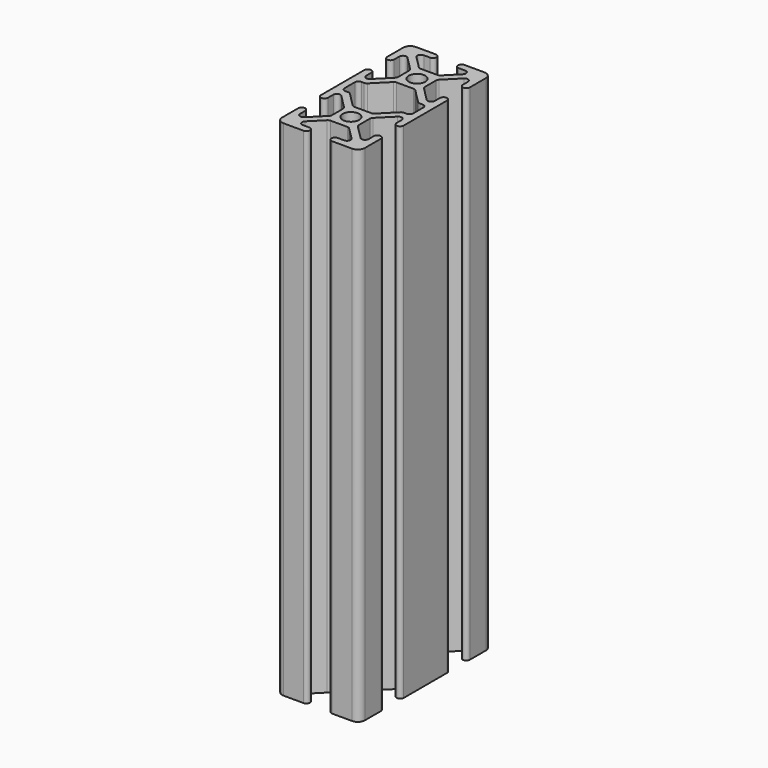
from build123d import *

# Parameters (mm, degrees)
F0_R     = 2.5
F1_DEPTH = 152.4


with BuildPart() as f1:
    # F0 (on Top) → F1 (new body)
    with BuildSketch(Plane.XY):
        with BuildLine():
            ThreePointArc((-10.36, 12.5), (-11.873209, 11.873209), (-12.5, 10.36))
            Line((-12.5, 10.36), (-12.5, 4.32))
            ThreePointArc((-12.5, 4.32), (-11.43, 3.25), (-10.36, 4.32))
            Line((-10.36, 4.32), (-10.36, 6.263583))
            ThreePointArc((-10.36, 6.263583), (-9.699471, 7.252134), (-8.533396, 7.020187))
            Line((-8.533396, 7.020187), (-4.363396, 2.850187))
            ThreePointArc((-4.363396, 2.850187), (-4.131449, 2.503054), (-4.05, 2.093583))
            Line((-4.05, 2.093583), (-4.05, 0))
            Line((-4.05, 0), (-4.05, -2.093583))
            ThreePointArc((-4.05, -2.093583), (-4.131449, -2.503054), (-4.363396, -2.850187))
            Line((-4.363396, -2.850187), (-8.533396, -7.020187))
            ThreePointArc((-8.533396, -7.020187), (-9.699471, -7.252134), (-10.36, -6.263583))
            Line((-10.36, -6.263583), (-10.36, -4.32))
            ThreePointArc((-10.36, -4.32), (-11.43, -3.25), (-12.5, -4.32))
            Line((-12.5, -4.32), (-12.5, -12.5))
            Line((-12.5, -12.5), (-12.5, -20.68))
            ThreePointArc((-12.5, -20.68), (-11.43, -21.75), (-10.36, -20.68))
            Line((-10.36, -20.68), (-10.36, -18.736417))
            ThreePointArc((-10.36, -18.736417), (-9.699471, -17.747866), (-8.533396, -17.979813))
            Line((-8.533396, -17.979813), (-4.363396, -22.149813))
            ThreePointArc((-4.363396, -22.149813), (-4.131449, -22.496946), (-4.05, -22.906417))
            Line((-4.05, -22.906417), (-4.05, -25))
            Line((-4.05, -25), (-4.05, -27.093583))
            ThreePointArc((-4.05, -27.093583), (-4.131449, -27.503054), (-4.363396, -27.850187))
            Line((-4.363396, -27.850187), (-8.533396, -32.020187))
            ThreePointArc((-8.533396, -32.020187), (-9.699471, -32.252134), (-10.36, -31.263583))
            Line((-10.36, -31.263583), (-10.36, -29.32))
            ThreePointArc((-10.36, -29.32), (-11.43, -28.25), (-12.5, -29.32))
            Line((-12.5, -29.32), (-12.5, -35.36))
            ThreePointArc((-12.5, -35.36), (-11.873209, -36.873209), (-10.36, -37.5))
            Line((-10.36, -37.5), (-4.32, -37.5))
            ThreePointArc((-4.32, -37.5), (-3.25, -36.43), (-4.32, -35.36))
            Line((-4.32, -35.36), (-6.263583, -35.36))
            ThreePointArc((-6.263583, -35.36), (-7.252134, -34.699471), (-7.020187, -33.533396))
            Line((-7.020187, -33.533396), (-3.310187, -29.823396))
            ThreePointArc((-3.310187, -29.823396), (-2.963054, -29.591449), (-2.553583, -29.51))
            Line((-2.553583, -29.51), (0, -29.51))
            Line((0, -29.51), (2.553583, -29.51))
            ThreePointArc((2.553583, -29.51), (2.963054, -29.591449), (3.310187, -29.823396))
            Line((3.310187, -29.823396), (7.020187, -33.533396))
            ThreePointArc((7.020187, -33.533396), (7.252134, -34.699471), (6.263583, -35.36))
            Line((6.263583, -35.36), (4.32, -35.36))
            ThreePointArc((4.32, -35.36), (3.25, -36.43), (4.32, -37.5))
            Line((4.32, -37.5), (10.36, -37.5))
            ThreePointArc((10.36, -37.5), (11.873209, -36.873209), (12.5, -35.36))
            Line((12.5, -35.36), (12.5, -29.32))
            ThreePointArc((12.5, -29.32), (11.43, -28.25), (10.36, -29.32))
            Line((10.36, -29.32), (10.36, -31.263583))
            ThreePointArc((10.36, -31.263583), (9.699471, -32.252134), (8.533396, -32.020187))
            Line((8.533396, -32.020187), (4.363396, -27.850187))
            ThreePointArc((4.363396, -27.850187), (4.131449, -27.503054), (4.05, -27.093583))
            Line((4.05, -27.093583), (4.05, -25))
            Line((4.05, -25), (4.05, -22.906417))
            ThreePointArc((4.05, -22.906417), (4.131449, -22.496946), (4.363396, -22.149813))
            Line((4.363396, -22.149813), (8.533396, -17.979813))
            ThreePointArc((8.533396, -17.979813), (9.699471, -17.747866), (10.36, -18.736417))
            Line((10.36, -18.736417), (10.36, -20.68))
            ThreePointArc((10.36, -20.68), (11.43, -21.75), (12.5, -20.68))
            Line((12.5, -20.68), (12.5, -12.5))
            Line((12.5, -12.5), (12.5, -4.32))
            ThreePointArc((12.5, -4.32), (11.43, -3.25), (10.36, -4.32))
            Line((10.36, -4.32), (10.36, -6.263583))
            ThreePointArc((10.36, -6.263583), (9.699471, -7.252134), (8.533396, -7.020187))
            Line((8.533396, -7.020187), (4.363396, -2.850187))
            ThreePointArc((4.363396, -2.850187), (4.131449, -2.503054), (4.05, -2.093583))
            Line((4.05, -2.093583), (4.05, 0))
            Line((4.05, 0), (4.05, 2.093583))
            ThreePointArc((4.05, 2.093583), (4.131449, 2.503054), (4.363396, 2.850187))
            Line((4.363396, 2.850187), (8.533396, 7.020187))
            ThreePointArc((8.533396, 7.020187), (9.699471, 7.252134), (10.36, 6.263583))
            Line((10.36, 6.263583), (10.36, 4.32))
            ThreePointArc((10.36, 4.32), (11.43, 3.25), (12.5, 4.32))
            Line((12.5, 4.32), (12.5, 10.36))
            ThreePointArc((12.5, 10.36), (11.873209, 11.873209), (10.36, 12.5))
            Line((10.36, 12.5), (4.32, 12.5))
            ThreePointArc((4.32, 12.5), (3.25, 11.43), (4.32, 10.36))
            Line((4.32, 10.36), (6.263583, 10.36))
            ThreePointArc((6.263583, 10.36), (7.252134, 9.699471), (7.020187, 8.533396))
            Line((7.020187, 8.533396), (3.310187, 4.823396))
            ThreePointArc((3.310187, 4.823396), (2.963054, 4.591449), (2.553583, 4.51))
            Line((2.553583, 4.51), (0, 4.51))
            Line((0, 4.51), (-2.553583, 4.51))
            ThreePointArc((-2.553583, 4.51), (-2.963054, 4.591449), (-3.310187, 4.823396))
            Line((-3.310187, 4.823396), (-7.020187, 8.533396))
            ThreePointArc((-7.020187, 8.533396), (-7.252134, 9.699471), (-6.263583, 10.36))
            Line((-6.263583, 10.36), (-4.32, 10.36))
            ThreePointArc((-4.32, 10.36), (-3.25, 11.43), (-4.32, 12.5))
            Line((-4.32, 12.5), (-10.36, 12.5))
        make_face()
        with Locations((0, -25)):
            Circle(F0_R, mode=Mode.SUBTRACT)
        with BuildLine():
            Line((-2.553583, -4.51), (0, -4.51))
            Line((0, -4.51), (2.553583, -4.51))
            ThreePointArc((2.553583, -4.51), (2.963054, -4.591449), (3.310187, -4.823396))
            Line((3.310187, -4.823396), (7.646979, -9.160187))
            ThreePointArc((7.646979, -9.160187), (7.994112, -9.392134), (8.403583, -9.473583))
            Line((8.403583, -9.473583), (9.29, -9.473583))
            ThreePointArc((9.29, -9.473583), (10.046604, -9.786979), (10.36, -10.543583))
            Line((10.36, -10.543583), (10.36, -12.5))
            Line((10.36, -12.5), (10.36, -14.456417))
            ThreePointArc((10.36, -14.456417), (10.046604, -15.213021), (9.29, -15.526417))
            Line((9.29, -15.526417), (8.403583, -15.526417))
            ThreePointArc((8.403583, -15.526417), (7.994112, -15.607866), (7.646979, -15.839813))
            Line((7.646979, -15.839813), (3.310187, -20.176604))
            ThreePointArc((3.310187, -20.176604), (2.963054, -20.408551), (2.553583, -20.49))
            Line((2.553583, -20.49), (0, -20.49))
            Line((0, -20.49), (-2.553583, -20.49))
            ThreePointArc((-2.553583, -20.49), (-2.963054, -20.408551), (-3.310187, -20.176604))
            Line((-3.310187, -20.176604), (-7.646979, -15.839813))
            ThreePointArc((-7.646979, -15.839813), (-7.994112, -15.607866), (-8.403583, -15.526417))
            Line((-8.403583, -15.526417), (-9.29, -15.526417))
            ThreePointArc((-9.29, -15.526417), (-10.046604, -15.213021), (-10.36, -14.456417))
            Line((-10.36, -14.456417), (-10.36, -12.5))
            Line((-10.36, -12.5), (-10.36, -10.543583))
            ThreePointArc((-10.36, -10.543583), (-10.046604, -9.786979), (-9.29, -9.473583))
            Line((-9.29, -9.473583), (-8.403583, -9.473583))
            ThreePointArc((-8.403583, -9.473583), (-7.994112, -9.392134), (-7.646979, -9.160187))
            Line((-7.646979, -9.160187), (-3.310187, -4.823396))
            ThreePointArc((-3.310187, -4.823396), (-2.963054, -4.591449), (-2.553583, -4.51))
        make_face(mode=Mode.SUBTRACT)
        Circle(F0_R, mode=Mode.SUBTRACT)
    extrude(amount=F1_DEPTH)


solid = f1.part
